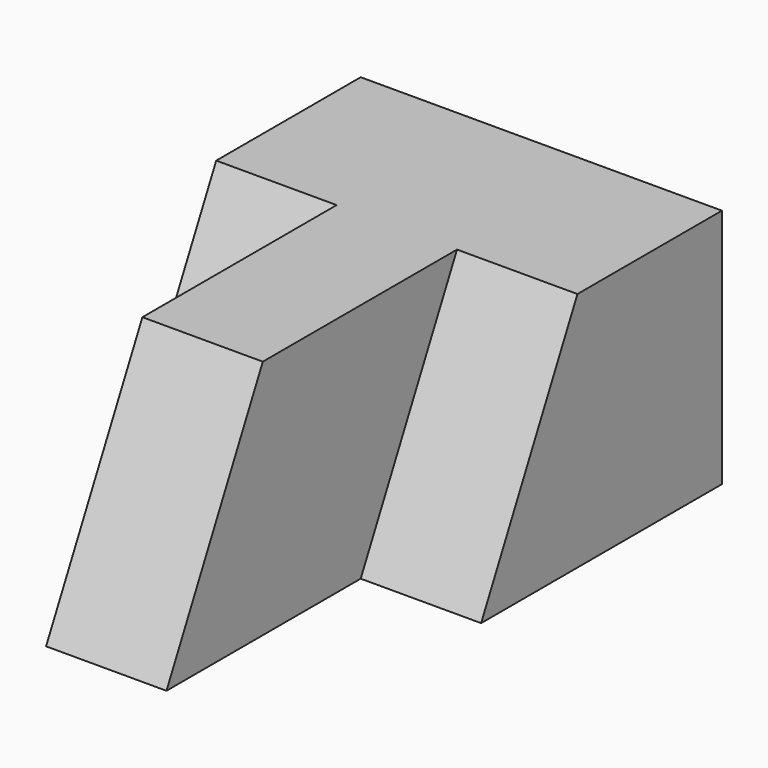
from build123d import *

# Parameters (mm, degrees)
F1_DEPTH = 25.4
F3_DEPTH = 12.7
F5_DEPTH = 12.7
F7_DEPTH = 12.7


with BuildPart() as f1:
    # F0 (on Top) → F1 (new body)
    with BuildSketch(Plane.XY):
        Polygon((10.637409, 57.358576), (0, 57.358576), (-27.462591, 57.358576), (-27.462591, 25.608576), (-14.762591, 25.608576), (-14.762591, 0), (-2.062591, 0), (-2.062591, 25.608576), (10.637409, 25.608576), align=None)
    extrude(amount=F1_DEPTH)

    # F2 (on face) → F3 (cut)
    with BuildSketch(Plane(origin=(-27.462591, 0, 0), x_dir=(0, -1, 0), z_dir=(-1, 0, 0))):
        Polygon((-25.608576, 25.4), (-38.308576, 25.4), (-25.608576, 0), align=None)
    extrude(amount=-F3_DEPTH, mode=Mode.SUBTRACT)

    # F4 (on face) → F5 (cut)
    with BuildSketch(Plane.YZ.offset(10.637409)):
        Polygon((25.608576, 25.4), (25.608576, 0), (38.308576, 25.4), align=None)
    extrude(amount=-F5_DEPTH, mode=Mode.SUBTRACT)

    # F6 (on face) → F7 (cut)
    with BuildSketch(Plane(origin=(-14.762591, 0, 0), x_dir=(0, -1, 0), z_dir=(-1, 0, 0))):
        Polygon((0, 25.4), (-12.7, 25.4), (0, 0), align=None)
    extrude(amount=-F7_DEPTH, mode=Mode.SUBTRACT)


solid = f1.part
